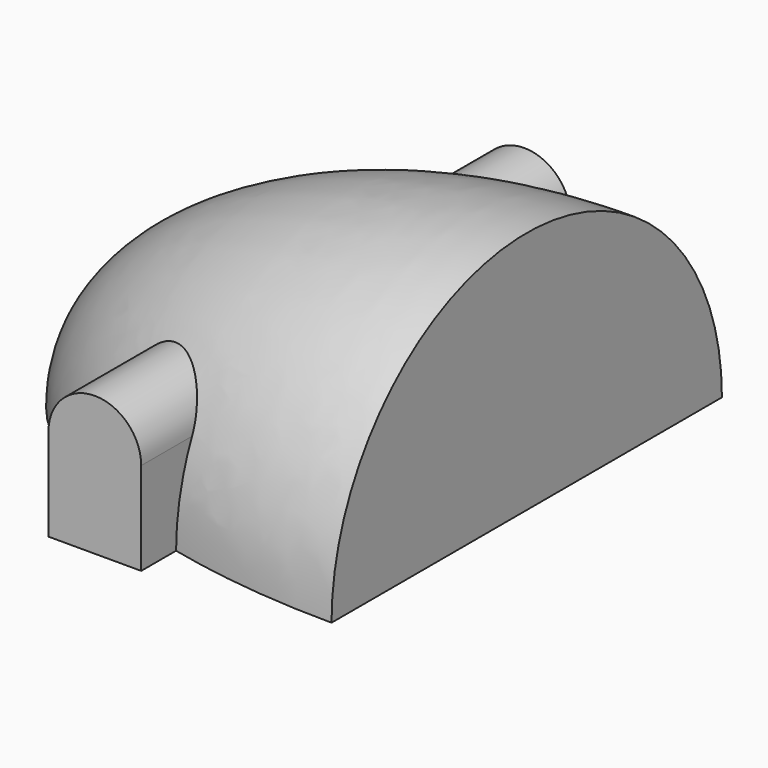
from build123d import *

# Parameters (mm, degrees)
F1_ANGLE_BACK = 90
F1_ANGLE      = 180
F2_W          = 9.5
F2_H          = 9.5
F3_DEPTH      = 27.5


with BuildPart() as f1:
    # F0 (on Front) → F1 (revolve)
    with BuildSketch(Plane.XZ, mode=Mode.PRIVATE) as f1_sk:
        with BuildLine():
            Line((0, 0), (0, 25))
            add(Edge.make_bspline(
                [(0, 25), (-45, 25), (-45, 0)],
                knots=[4.7123889804, 4.7123889804, 4.7123889804, 6.2831853072, 6.2831853072, 6.2831853072], degree=2, weights=[1, 0.7071067812, 1]))
            Line((-45, 0), (0, 0))
        make_face()
    revolve(f1_sk.sketch.rotate(Axis((-22.5, 0, 0), (1, 0, 0)), -F1_ANGLE_BACK), axis=Axis((-22.5, 0, 0), (1, 0, 0)), revolution_arc=F1_ANGLE)


with BuildPart() as f3:
    # F2 (on Front) → F3 (new body, symmetric)
    with BuildSketch(Plane.XZ):
        with Locations((-22.25, 4.75)):
            Rectangle(F2_W, F2_H)
        with BuildLine():
            ThreePointArc((-17.5, 9.5), (-22.25, 14.25), (-27, 9.5))
            Line((-27, 9.5), (-17.5, 9.5))
        make_face()
    extrude(amount=F3_DEPTH, both=True)


with BuildPart() as f1_1:
    add(f1.part)

    # F4: cut F3
    add(f3.part, mode=Mode.SUBTRACT)


solid = Compound([f3.part, f1_1.part])
